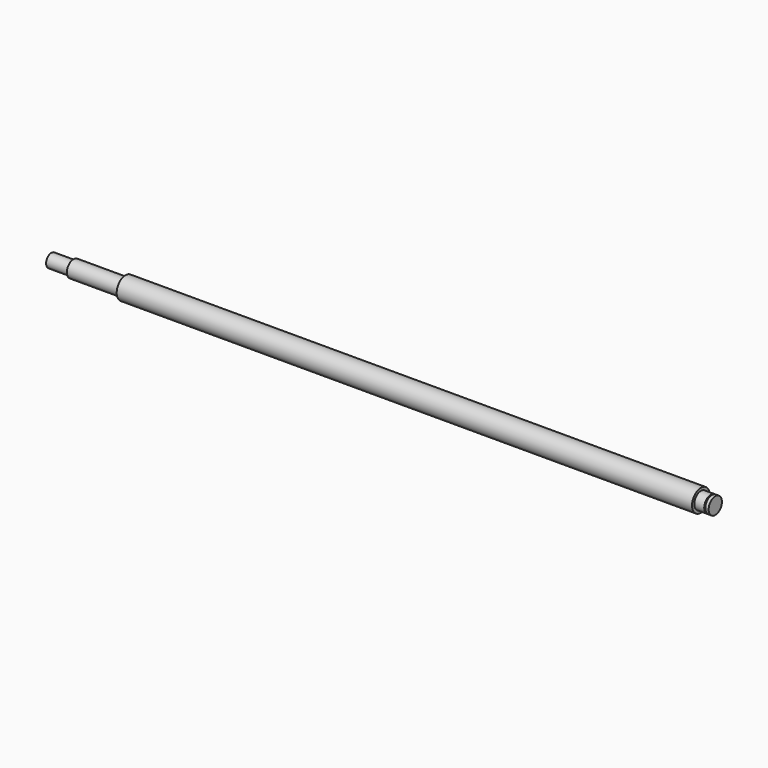
from build123d import *

# Parameters (mm, degrees)
SKETCH_W      = 600
SKETCH_H      = 10
SKETCH001_W   = 67
SKETCH001_H   = 2.5
SKETCH002_W   = 20
SKETCH002_H   = 1.5
SKETCH003_W   = 13
SKETCH003_H   = 2.5
SKETCH003_W_2 = 1
SKETCH003_H_2 = 3.01


with BuildPart() as part:
    # Sketch → Revolution (revolve)
    with BuildSketch(Plane.XZ):
        with Locations((300, 5)):
            Rectangle(SKETCH_W, SKETCH_H)
    revolve(axis=Axis((0, 0, 0), (1, 0, 0)))

    # Sketch001 → Groove (revolve, cut)
    with BuildSketch(Plane.XZ):
        with Locations((33.5, 8.75)):
            Rectangle(SKETCH001_W, SKETCH001_H)
    revolve(axis=Axis((0, 0, 0), (1, 0, 0)), mode=Mode.SUBTRACT)

    # Sketch002 → Groove001 (revolve, cut)
    with BuildSketch(Plane.XZ):
        with Locations((10, 6.75)):
            Rectangle(SKETCH002_W, SKETCH002_H)
    revolve(axis=Axis((0, 0, 0), (1, 0, 0)), mode=Mode.SUBTRACT)

    # Sketch003 → Groove002 (revolve, cut)
    with BuildSketch(Plane.XZ):
        with Locations((593.5, 8.75)):
            Rectangle(SKETCH003_W, SKETCH003_H)
        with Locations((596.5, 5.995)):
            Rectangle(SKETCH003_W_2, SKETCH003_H_2)
    revolve(axis=Axis((0, 0, 0), (1, 0, 0)), mode=Mode.SUBTRACT)


solid = part.part
